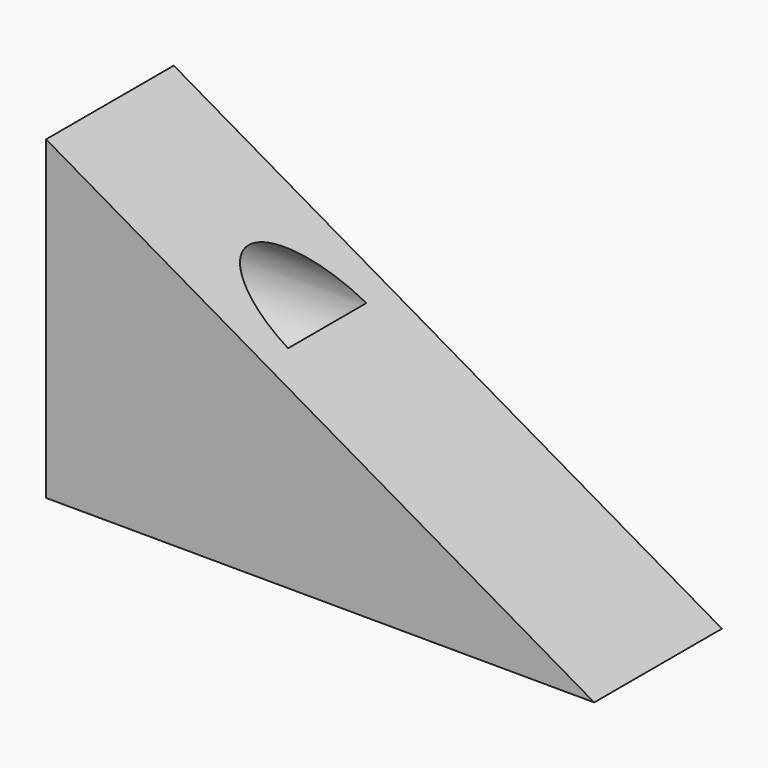
from build123d import *

# Parameters (mm, degrees)
F1_DEPTH = 12.5
F2_R     = 7.6892274909
F3_DEPTH = 25


with BuildPart() as f1:
    # F0 (on Front) → F1 (new body, symmetric)
    with BuildSketch(Plane.XZ):
        Polygon((-34.0277776122, 57.3611110449), (-34.0277776122, 7.9166665673), (51.8055595458, 7.6388888992), align=None)
    extrude(amount=F1_DEPTH, both=True)

    # F2 (on Right) → F3 (cut)
    with BuildSketch(Plane.YZ):
        with Locations((0, 37.0833352208)):
            Circle(F2_R)
    extrude(amount=-F3_DEPTH, mode=Mode.SUBTRACT)


solid = f1.part
